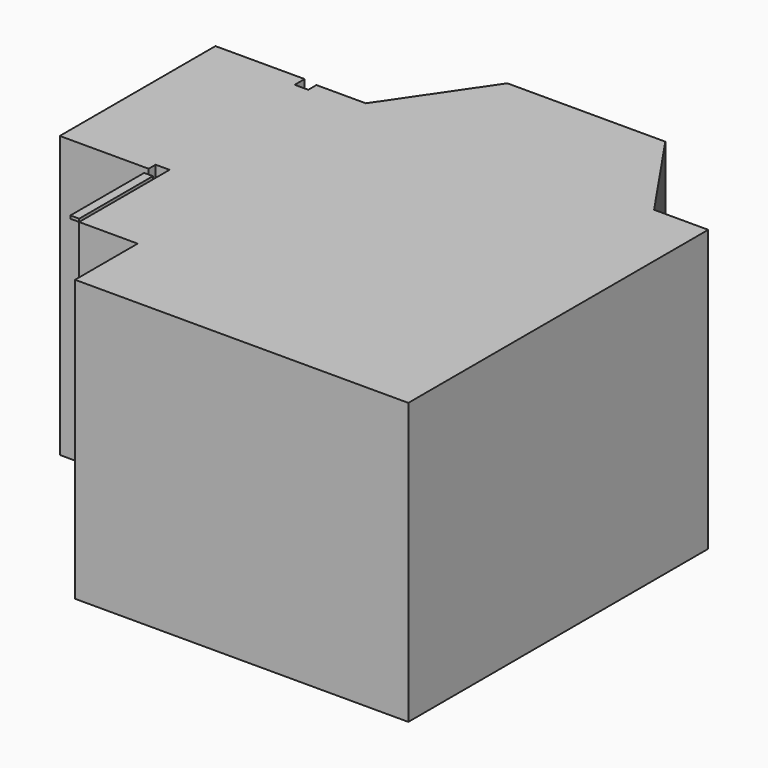
from build123d import *

# Parameters (mm, degrees)
F1_DEPTH = 2438.4
F2_W     = 76.2
F2_H     = 800.1
F3_DEPTH = 25.4


with BuildPart() as f1:
    # F0 (on Top) → F1 (new body)
    with BuildSketch(Plane.XY):
        Polygon((1857.829663, 4083.05), (486.229663, 4083.05), (-79.375, 3254.375), (-508, 3254.375), (-508, 3165.475), (-625.475, 3165.475), (-625.475, 3273.425), (-1400.175, 3273.425), (-1400.175, 1584.325), (-628.65, 1584.325), (-628.65, 1660.525), (-508, 1660.525), (-508, 1479.55), (-508, 679.45), (0, 679.45), (0, 0), (2893.334325, 0), (2893.334325, 3254.375), (2423.434325, 3254.375), align=None)
    extrude(amount=F1_DEPTH)

    # F2 (on face) → F3 (join)
    with BuildSketch(Plane.XY.offset(2438.4)):
        with Locations((-546.1, 1079.5)):
            Rectangle(F2_W, F2_H)
    extrude(amount=F3_DEPTH)


solid = f1.part
